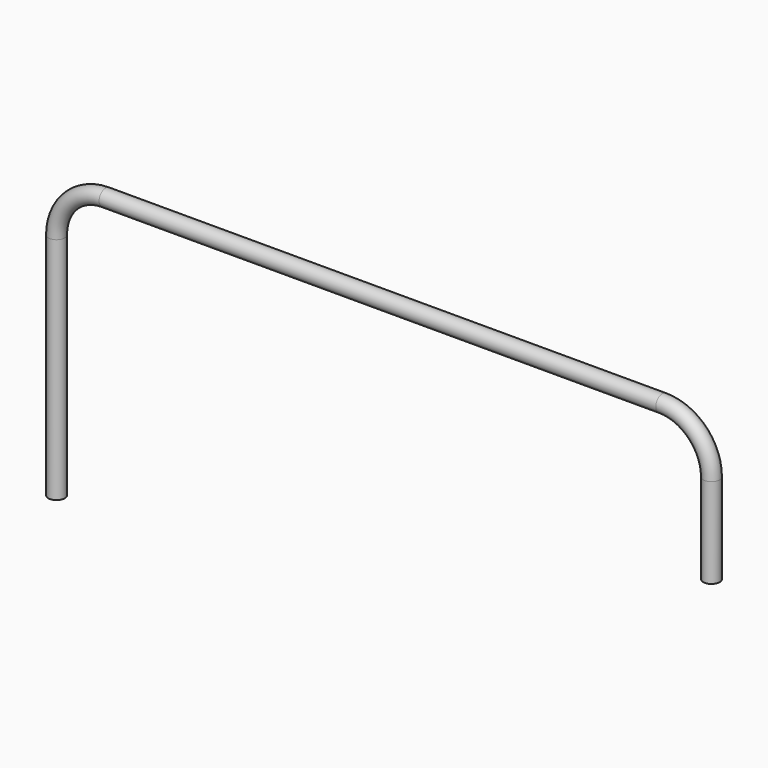
from build123d import *

# Parameters (mm, degrees)
F1_R = 10


with BuildPart() as f2:
    # F2: sweep along a path in F0
    with BuildLine(Plane.XZ) as f2_path:
        Line((0, 0), (0, 110))
        ThreePointArc((0, 110), (-17.5735931288, 152.4264068712), (-60, 170))
        Line((-60, 170), (-740, 170))
        ThreePointArc((-740, 170), (-782.4264068712, 152.4264068712), (-800, 110))
        Line((-800, 110), (-800, -170))
    # F1 (on Top) → F2 (sweep)
    with BuildSketch(Plane.XY):
        Circle(F1_R)
    sweep(path=f2_path.line)


solid = f2.part
